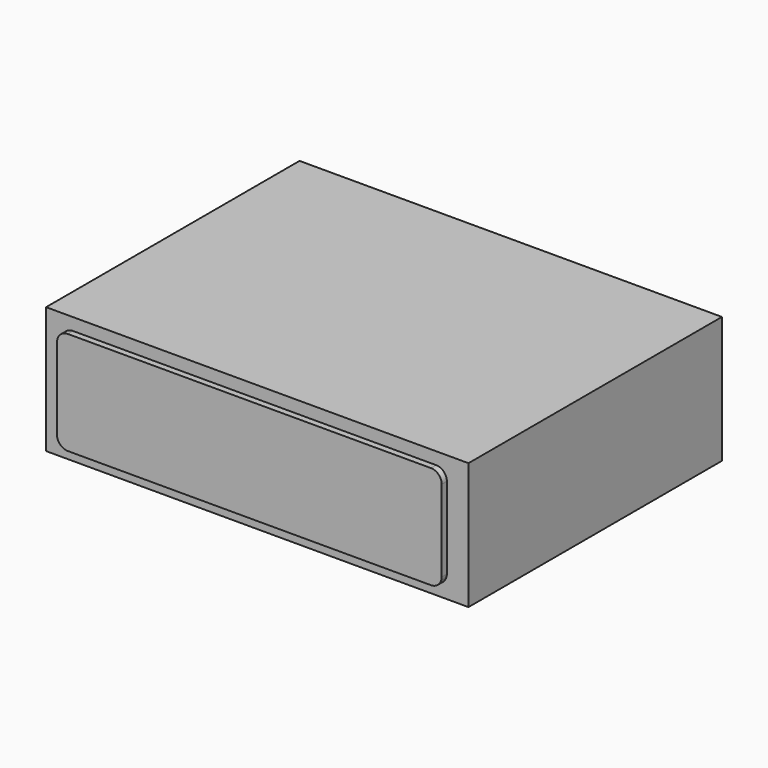
from build123d import *

# Parameters (mm, degrees)
F0_W     = 100
F0_H     = 75
F1_DEPTH = 30
F3_DEPTH = 1.524
F5_DEPTH = 1.524
F6_W     = 18.507942
F6_H     = 17.525221
F6_W_2   = 17.525221
F6_H_2   = 6.879058
F6_W_3   = 17.525222
F6_H_3   = 6.879059
F7_DEPTH = 6.35


with BuildPart() as f1:
    # F0 (on Top) → F1 (new body)
    with BuildSketch(Plane.XY):
        Rectangle(F0_W, F0_H)
    extrude(amount=F1_DEPTH)

    # F2 (on face) → F3 (join)
    with BuildSketch(Plane.XZ.offset(37.5)):
        with BuildLine():
            Line((42.337663, 27.106768), (-43.647963, 27.106768))
            ThreePointArc((-43.647963, 27.106768), (-45.444015, 26.362819), (-46.187963, 24.566768))
            Line((-46.187963, 24.566768), (-46.187963, 5.242487))
            ThreePointArc((-46.187963, 5.242487), (-45.444015, 3.446436), (-43.647963, 2.702487))
            Line((-43.647963, 2.702487), (42.337663, 2.702487))
            ThreePointArc((42.337663, 2.702487), (44.133714, 3.446436), (44.877663, 5.242487))
            Line((44.877663, 5.242487), (44.877663, 24.566768))
            ThreePointArc((44.877663, 24.566768), (44.133714, 26.362819), (42.337663, 27.106768))
        make_face()
    extrude(amount=F3_DEPTH)

    # F4 (on face) → F5 (join)
    with BuildSketch(Plane(origin=(0, 37.5, 0), x_dir=(-1, 0, 0), z_dir=(0, 1, 0))):
        with BuildLine():
            Line((43.245368, 27.151501), (-42.740258, 27.151501))
            ThreePointArc((-42.740258, 27.151501), (-44.53631, 26.407552), (-45.280258, 24.611501))
            Line((-45.280258, 24.611501), (-45.280258, 5.287221))
            ThreePointArc((-45.280258, 5.287221), (-44.53631, 3.491169), (-42.740258, 2.747221))
            Line((-42.740258, 2.747221), (43.245368, 2.747221))
            ThreePointArc((43.245368, 2.747221), (45.041419, 3.491169), (45.785368, 5.287221))
            Line((45.785368, 5.287221), (45.785368, 24.611501))
            ThreePointArc((45.785368, 24.611501), (45.041419, 26.407552), (43.245368, 27.151501))
        make_face()
    extrude(amount=F5_DEPTH)

    # F6 (on face) → F7 (cut)
    with BuildSketch(Plane(origin=(-50, 0, 0), x_dir=(0, -1, 0), z_dir=(-1, 0, 0))):
        with Locations((-23.994811, 15.395988)):
            Rectangle(F6_W, F6_H)
        with Locations((0.900829, 10.072907)):
            Rectangle(F6_W_2, F6_H_2)
        with Locations((0.947953, 21.248168)):
            Rectangle(F6_W_3, F6_H_3)
        with Locations((23.416942, 10.046705)):
            Rectangle(F6_W_2, F6_H_3)
        with Locations((23.464066, 21.221965)):
            Rectangle(F6_W_3, F6_H_3)
    extrude(amount=-F7_DEPTH, mode=Mode.SUBTRACT)


solid = f1.part
